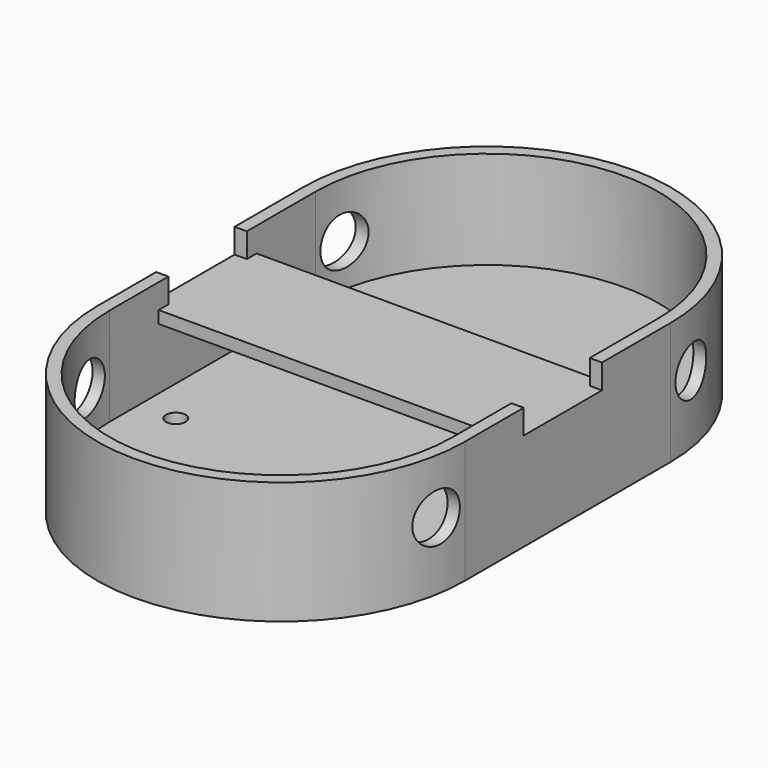
from build123d import *

# Parameters (mm, degrees)
CYLINDER049_R           = 0.8
CYLINDER049_DEPTH       = 10
CYLINDER048_R           = 0.8
CYLINDER048_DEPTH       = 10
BOX013_W                = 28
BOX013_H                = 10
BOX013_DEPTH            = 2
BOX011_W                = 28
BOX011_H                = 10
BOX011_DEPTH            = 3
CYLINDER029_R           = 2
CYLINDER029_DEPTH       = 10
CYLINDER029_PITCH_ANGLE = 90
CYLINDER031_R           = 2
CYLINDER031_DEPTH       = 10
CYLINDER031_PITCH_ANGLE = 90
CYLINDER030_R           = 2
CYLINDER030_DEPTH       = 10
CYLINDER030_PITCH_ANGLE = 90
CYLINDER028_R           = 2
CYLINDER028_DEPTH       = 10
CYLINDER028_PITCH_ANGLE = 90
BOX012_W                = 33
BOX012_H                = 8
BOX012_DEPTH            = 2
CYLINDER002_W           = 14
CYLINDER002_H           = 8
CYLINDER002_ANGLE       = 180
CYLINDER001_W           = 15
CYLINDER001_H           = 10
CYLINDER001_ANGLE       = 180
CYLINDER003_W           = 14
CYLINDER003_H           = 8
CYLINDER003_ANGLE       = 180
CYLINDER_W              = 15
CYLINDER_H              = 10
CYLINDER_ANGLE          = 180
BOX001_W                = 28
BOX001_H                = 21
BOX001_DEPTH            = 8
BOX_W                   = 30
BOX_H                   = 21
BOX_DEPTH               = 10
FUSION_PLACEMENT_ANGLE  = 180


with BuildPart() as cilindro049:
    # Cylinder049 → Cylinder049 (new body)
    with BuildSketch(Plane(origin=(-10, -18, -15), x_dir=(1, 0, 0), z_dir=(0, 0, 1))):
        Circle(CYLINDER049_R)
    extrude(amount=CYLINDER049_DEPTH)


with BuildPart() as cilindro048:
    # Cylinder048 → Cylinder048 (new body)
    with BuildSketch(Plane(origin=(-10, -5, -15), x_dir=(1, 0, 0), z_dir=(0, 0, 1))):
        Circle(CYLINDER048_R)
    extrude(amount=CYLINDER048_DEPTH)


with BuildPart() as cubo013:
    # Box013 → Box013 (new body)
    with BuildSketch(Plane(origin=(-27, 54, 42), x_dir=(1, 0, 0), z_dir=(0, 0, 1))):
        with Locations((14, 5)):
            Rectangle(BOX013_W, BOX013_H)
    extrude(amount=BOX013_DEPTH)


with BuildPart() as cut004:
    # Box011 → Box011 (new body)
    with BuildSketch(Plane(origin=(-27, 54, 41), x_dir=(1, 0, 0), z_dir=(0, 0, 1))):
        with Locations((14, 5)):
            Rectangle(BOX011_W, BOX011_H)
    extrude(amount=BOX011_DEPTH)

    # Cut004: cut Cubo013
    add(cubo013.part, mode=Mode.SUBTRACT)


with BuildPart() as cilindro029:
    # Cylinder029 → Cylinder029 (new body)
    with BuildSketch(Plane.XY):
        Circle(CYLINDER029_R)
    extrude(amount=CYLINDER029_DEPTH)


with BuildPart() as cilindro029_1:
    # Cylinder029 pitch: moved
    add(cilindro029.part.rotate(Axis((0, 0, 0), (0, 1, 0)), CYLINDER029_PITCH_ANGLE))


with BuildPart() as cilindro029_2:
    # Cylinder029 placement: moved
    add(cilindro029_1.part.moved(Location((-29, 46.5, 39.5))))


with BuildPart() as cilindro031:
    # Cylinder031 → Cylinder031 (new body)
    with BuildSketch(Plane.XY):
        Circle(CYLINDER031_R)
    extrude(amount=CYLINDER031_DEPTH)


with BuildPart() as cilindro031_1:
    # Cylinder031 pitch: moved
    add(cilindro031.part.rotate(Axis((0, 0, 0), (0, 1, 0)), CYLINDER031_PITCH_ANGLE))


with BuildPart() as cilindro031_2:
    # Cylinder031 placement: moved
    add(cilindro031_1.part.moved(Location((-5, 72.5, 39.5))))


with BuildPart() as cilindro030:
    # Cylinder030 → Cylinder030 (new body)
    with BuildSketch(Plane.XY):
        Circle(CYLINDER030_R)
    extrude(amount=CYLINDER030_DEPTH)


with BuildPart() as cilindro030_1:
    # Cylinder030 pitch: moved
    add(cilindro030.part.rotate(Axis((0, 0, 0), (0, 1, 0)), CYLINDER030_PITCH_ANGLE))


with BuildPart() as cilindro030_2:
    # Cylinder030 placement: moved
    add(cilindro030_1.part.moved(Location((-5, 46.5, 39.5))))


with BuildPart() as cilindro028:
    # Cylinder028 → Cylinder028 (new body)
    with BuildSketch(Plane.XY):
        Circle(CYLINDER028_R)
    extrude(amount=CYLINDER028_DEPTH)


with BuildPart() as cilindro028_1:
    # Cylinder028 pitch: moved
    add(cilindro028.part.rotate(Axis((0, 0, 0), (0, 1, 0)), CYLINDER028_PITCH_ANGLE))


with BuildPart() as cilindro028_2:
    # Cylinder028 placement: moved
    add(cilindro028_1.part.moved(Location((-29, 72.5, 39.5))))


with BuildPart() as cubo012:
    # Box012 → Box012 (new body)
    with BuildSketch(Plane(origin=(-30, 55, 42), x_dir=(1, 0, 0), z_dir=(0, 0, 1))):
        with Locations((16.5, 4)):
            Rectangle(BOX012_W, BOX012_H)
    extrude(amount=BOX012_DEPTH)


with BuildPart() as cilindro002:
    # Cylinder002 → Cylinder002 (revolve)
    with BuildSketch(Plane(origin=(16, 49, -36), x_dir=(1, 0, 0), z_dir=(0, 1, 0))):
        with Locations((7, 4)):
            Rectangle(CYLINDER002_W, CYLINDER002_H)
    revolve(axis=Axis((16, 49, -36), (0, 0, -1)), revolution_arc=CYLINDER002_ANGLE)


with BuildPart() as cut001:
    # Cylinder001 → Cylinder001 (revolve)
    with BuildSketch(Plane(origin=(16, 49, -34), x_dir=(1, 0, 0), z_dir=(0, 1, 0))):
        with Locations((7.5, 5)):
            Rectangle(CYLINDER001_W, CYLINDER001_H)
    revolve(axis=Axis((16, 49, -34), (0, 0, -1)), revolution_arc=CYLINDER001_ANGLE)

    # Cut001: cut Cilindro002
    add(cilindro002.part, mode=Mode.SUBTRACT)


with BuildPart() as cut001_1:
    # Cut001 placement: moved
    add(cut001.part.moved(Location((-3, 0, 0))))


with BuildPart() as cilindro003:
    # Cylinder003 → Cylinder003 (revolve)
    with BuildSketch(Plane(origin=(13, 70, -36), x_dir=(-1, 0, 0), z_dir=(0, -1, 0))):
        with Locations((7, 4)):
            Rectangle(CYLINDER003_W, CYLINDER003_H)
    revolve(axis=Axis((13, 70, -36), (0, 0, -1)), revolution_arc=CYLINDER003_ANGLE)


with BuildPart() as cut002:
    # Cylinder → Cylinder (revolve)
    with BuildSketch(Plane(origin=(13, 70, -34), x_dir=(-1, 0, 0), z_dir=(0, -1, 0))):
        with Locations((7.5, 5)):
            Rectangle(CYLINDER_W, CYLINDER_H)
    revolve(axis=Axis((13, 70, -34), (0, 0, -1)), revolution_arc=CYLINDER_ANGLE)

    # Cut002: cut Cilindro003
    add(cilindro003.part, mode=Mode.SUBTRACT)


with BuildPart() as cubo001:
    # Box001 → Box001 (new body)
    with BuildSketch(Plane(origin=(-1, 49, -44), x_dir=(1, 0, 0), z_dir=(0, 0, 1))):
        with Locations((14, 10.5)):
            Rectangle(BOX001_W, BOX001_H)
    extrude(amount=BOX001_DEPTH)


with BuildPart() as cut068:
    # Box → Box (new body)
    with BuildSketch(Plane(origin=(-2, 49, -44), x_dir=(1, 0, 0), z_dir=(0, 0, 1))):
        with Locations((15, 10.5)):
            Rectangle(BOX_W, BOX_H)
    extrude(amount=BOX_DEPTH)

    # Cut: cut Cubo001
    add(cubo001.part, mode=Mode.SUBTRACT)

    # Fusion: union Cut001, Cut002
    add(cut001_1.part)
    add(cut002.part)


with BuildPart() as cut068_1:
    # Fusion placement: moved
    add(cut068.part.rotate(Axis((0, 0, 0), (0, 1, 0)), FUSION_PLACEMENT_ANGLE))

    # Cut003: cut Cubo012
    add(cubo012.part, mode=Mode.SUBTRACT)

    # Cut040: cut Cilindro028
    add(cilindro028_2.part, mode=Mode.SUBTRACT)

    # Cut041: cut Cilindro030
    add(cilindro030_2.part, mode=Mode.SUBTRACT)

    # Cut042: cut Cilindro031
    add(cilindro031_2.part, mode=Mode.SUBTRACT)

    # Cut043: cut Cilindro029
    add(cilindro029_2.part, mode=Mode.SUBTRACT)

    # Fusion002019: union Cut004
    add(cut004.part)


with BuildPart() as cut068_2:
    # Fusion002019 placement: moved
    add(cut068_1.part.moved(Location((14, -70, -44))))

    # Cut067: cut Cilindro048
    add(cilindro048.part, mode=Mode.SUBTRACT)

    # Cut068: cut Cilindro049
    add(cilindro049.part, mode=Mode.SUBTRACT)


solid = cut068_2.part
